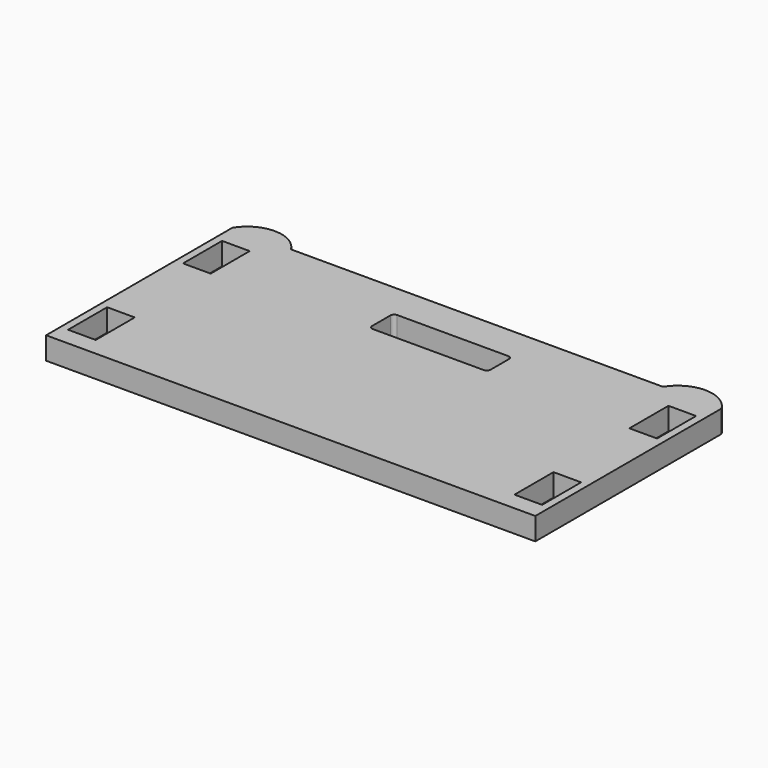
from build123d import *

# Parameters (mm, degrees)
F0_W     = 3.7
F0_H     = 6.53
F1_DEPTH = 3


with BuildPart() as f1:
    # F0 (on Top) → F1 (new body)
    with BuildSketch(Plane.XY):
        with BuildLine():
            Line((-32.137027, 13.112114), (-32.137027, -18.057886))
            Line((-32.137027, -18.057886), (33.342973, -18.057886))
            Line((33.342973, -18.057886), (33.342973, 13.112114))
            ThreePointArc((33.342973, 13.112114), (29.417973, 15.292114), (25.492973, 13.112114))
            Line((25.492973, 13.112114), (-24.287027, 13.112114))
            ThreePointArc((-24.287027, 13.112114), (-28.212027, 15.292114), (-32.137027, 13.112114))
        make_face()
        with Locations((-29.271027, -12.382886)):
            Rectangle(F0_W, F0_H, mode=Mode.SUBTRACT)
        with Locations((30.476973, -12.382886)):
            Rectangle(F0_W, F0_H, mode=Mode.SUBTRACT)
        with Locations((-29.271027, 6.847114)):
            Rectangle(F0_W, F0_H, mode=Mode.SUBTRACT)
        with BuildLine():
            ThreePointArc((-6.840227, 7.938514), (-6.69378, 8.292068), (-6.340227, 8.438514))
            Line((-6.340227, 8.438514), (8.509773, 8.438514))
            ThreePointArc((8.509773, 8.438514), (8.863326, 8.292068), (9.009773, 7.938514))
            Line((9.009773, 7.938514), (9.009773, 4.868514))
            ThreePointArc((9.009773, 4.868514), (8.863326, 4.514961), (8.509773, 4.368514))
            Line((8.509773, 4.368514), (-6.340227, 4.368514))
            ThreePointArc((-6.340227, 4.368514), (-6.69378, 4.514961), (-6.840227, 4.868514))
            Line((-6.840227, 4.868514), (-6.840227, 7.938514))
        make_face(mode=Mode.SUBTRACT)
        with Locations((30.476973, 6.847114)):
            Rectangle(F0_W, F0_H, mode=Mode.SUBTRACT)
    extrude(amount=F1_DEPTH)


solid = f1.part
